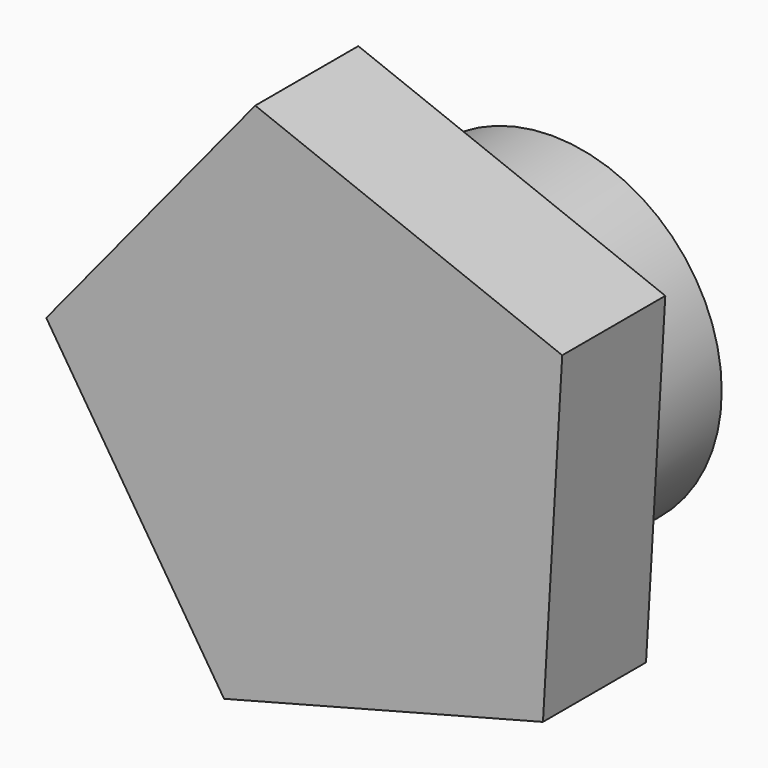
from build123d import *

# Parameters (mm, degrees)
F0_R     = 33.433475
F1_DEPTH = 25.4
F3_DEPTH = 25.4


with BuildPart() as f1:
    # F0 (on Front) → F1 (new body)
    with BuildSketch(Plane.XZ):
        Circle(F0_R)
    extrude(amount=F1_DEPTH)

    # F2 (on face) → F3 (join)
    with BuildSketch(Plane.XZ.offset(25.4)):
        Polygon((-17.906924, 53.485633), (-59.114876, 3.232247), (-24.055024, -51.487994), (38.821109, -35.053578), (42.620843, 29.823692), align=None)
    extrude(amount=F3_DEPTH)


solid = f1.part
